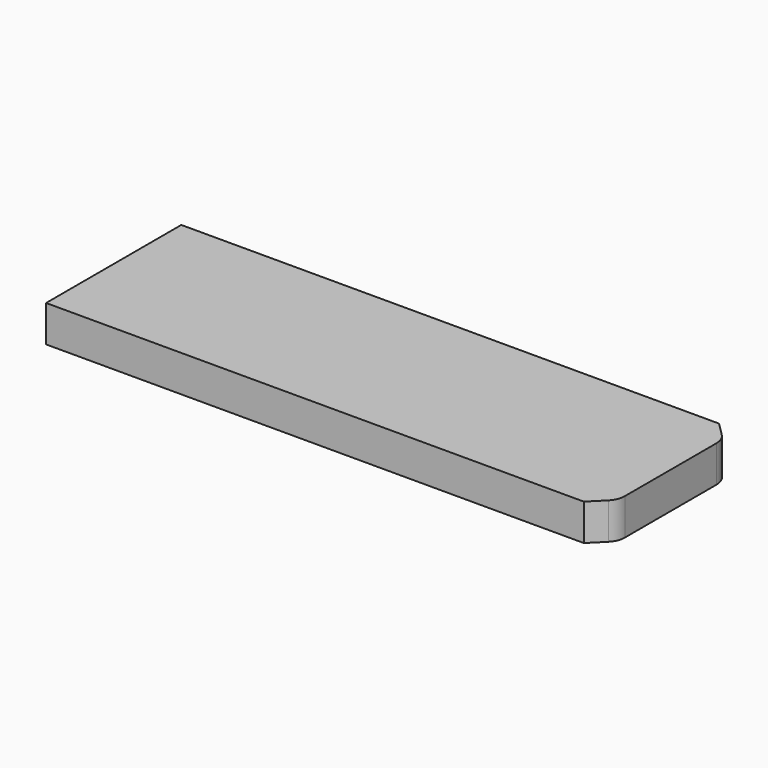
from build123d import *

# Parameters (mm, degrees)
F0_W     = 145
F0_H     = 9.5
F1_DEPTH = 44
F2_SIZE  = 5
F3_R     = 5


with BuildPart() as f1:
    # F0 (on Front) → F1 (new body)
    with BuildSketch(Plane.XZ):
        Rectangle(F0_W, F0_H)
    extrude(amount=F1_DEPTH)

    # F2
    f2_edges = [f1.edges().sort_by_distance(p)[0] for p in [
        (72.5, -44, 0),
        (72.5, 0, 0),
    ]]
    chamfer(f2_edges, length=F2_SIZE)

    # F3
    f3_edges = [f1.edges().sort_by_distance(p)[0] for p in [
        (72.5, -39, 0),
        (72.5, -5, 0),
    ]]
    fillet(f3_edges, radius=F3_R)


solid = f1.part
